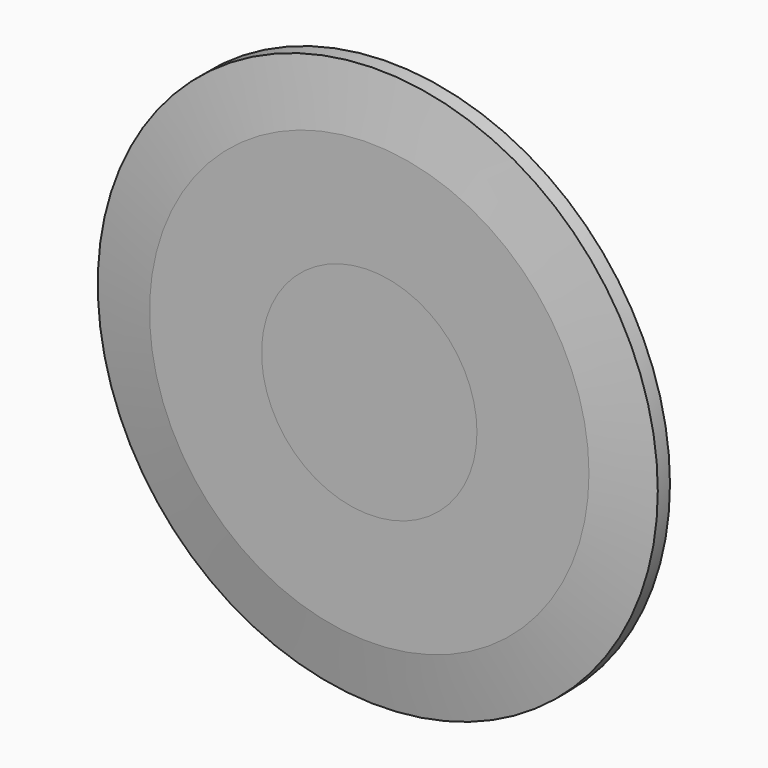
from build123d import *

# Parameters (mm, degrees)
F0_R     = 12.5
F1_DEPTH = 3
F0_R_2   = 32.5
F2_DEPTH = 3
F3_DEPTH = 3
F4_SIZE2 = 1.234288865
F4_SIZE  = 7


with BuildPart() as f1:
    # F0 (on Front) → F1 (new body)
    with BuildSketch(Plane.XZ):
        Circle(F0_R)
    extrude(amount=-F1_DEPTH)


with BuildPart() as f2:
    # F0 (on Front) → F2 (new body)
    with BuildSketch(Plane.XZ):
        Circle(F0_R_2)
        Circle(F0_R, mode=Mode.SUBTRACT)
    extrude(amount=F2_DEPTH)

    # F4
    f4_edges = [f2.edges().sort_by_distance(p)[0] for p in [
        (-32.5, -3, 0),
    ]]
    f4_side = f2.faces().sort_by_distance((-31.580761, -3, 0))[0]
    chamfer(f4_edges, length=F4_SIZE, length2=F4_SIZE2, reference=f4_side)


with BuildPart() as f3:
    # F3 (new): a face of the model
    f3_faces = [f1.part.faces().sort_by_distance(p)[0] for p in [
        (0, 0, 0),
    ]]
    extrude(f3_faces, amount=F3_DEPTH)


solid = Compound([f1.part, f2.part, f3.part])
